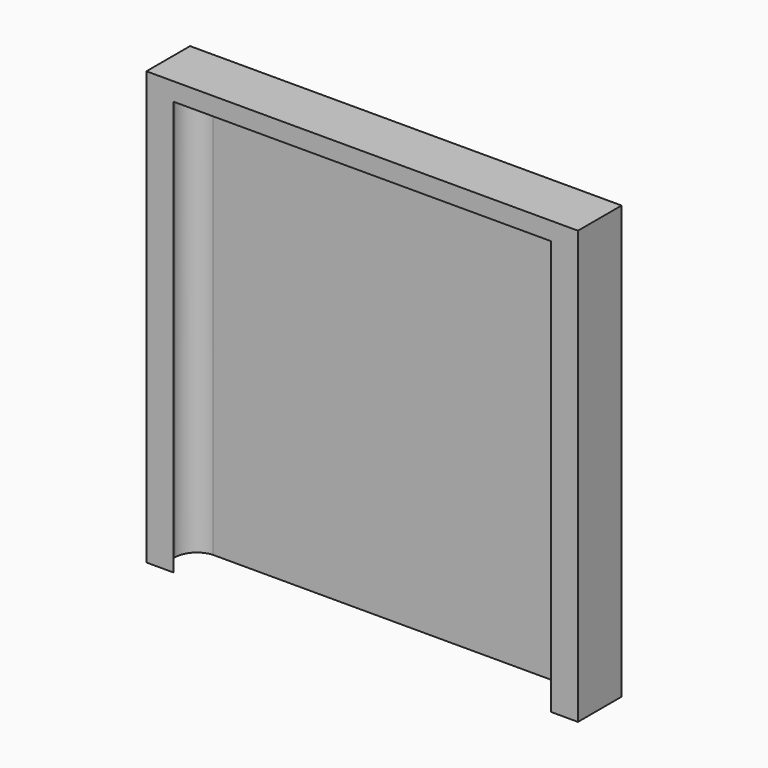
from build123d import *

# Parameters (mm, degrees)
F1_DEPTH = 69.15
F3_DEPTH = 3


with BuildPart() as f1:
    # F0 (on Top) → F1 (new body)
    with BuildSketch(Plane.XY):
        Polygon((36, 4.55), (-36, 4.55), (-36, -4.55), (-34, -4.55), (-34, -1.0883091449), (-34, 2.55), (-30.6, 2.55), (30.6, 2.55), (34, 2.55), (34, -1.0883090766), (34, -4.55), (36, -4.55), align=None)
        with BuildLine():
            Line((-34, 2.55), (-34, -1.0883091449))
            ThreePointArc((-34, -1.0883091449), (-33.0176987257, 1.4015349073), (-30.6, 2.55))
            Line((-30.6, 2.55), (-34, 2.55))
        make_face()
        with BuildLine():
            Line((-34, -1.0883091449), (-34, -4.55))
            Line((-34, -4.55), (-31.5, -4.55))
            ThreePointArc((-31.5, -4.55), (-33.3096559838, -3.2233327669), (-34, -1.0883091449))
        make_face()
        with BuildLine():
            ThreePointArc((30.6, 2.55), (33.0176987024, 1.4015349322), (34, -1.0883090766))
            Line((34, -1.0883090766), (34, 2.55))
            Line((34, 2.55), (30.6, 2.55))
        make_face()
        with BuildLine():
            Line((31.5, -4.55), (34, -4.55))
            Line((34, -4.55), (34, -1.0883090766))
            ThreePointArc((34, -1.0883090766), (33.3096560038, -3.2233327392), (31.5, -4.55))
        make_face()
    extrude(amount=F1_DEPTH)

    # F2 (on face) → F3 (join)
    with BuildSketch(Plane.XY.offset(69.15)):
        with BuildLine():
            ThreePointArc((-30.6, 2.55), (-33.9710506989, -0.6297259677), (-31.5, -4.55))
            Line((-31.5, -4.55), (31.5, -4.55))
            ThreePointArc((31.5, -4.55), (33.9710506989, -0.6297259677), (30.6, 2.55))
            Line((30.6, 2.55), (-30.6, 2.55))
        make_face()
        with BuildLine():
            Line((36, 4.55), (-36, 4.55))
            Line((-36, 4.55), (-36, -4.55))
            Line((-36, -4.55), (-31.5, -4.55))
            ThreePointArc((-31.5, -4.55), (-33.9710506989, -0.6297259677), (-30.6, 2.55))
            Line((-30.6, 2.55), (30.6, 2.55))
            ThreePointArc((30.6, 2.55), (33.9710506989, -0.6297259677), (31.5, -4.55))
            Line((31.5, -4.55), (36, -4.55))
            Line((36, -4.55), (36, 4.55))
        make_face()
    extrude(amount=F3_DEPTH)


solid = f1.part
